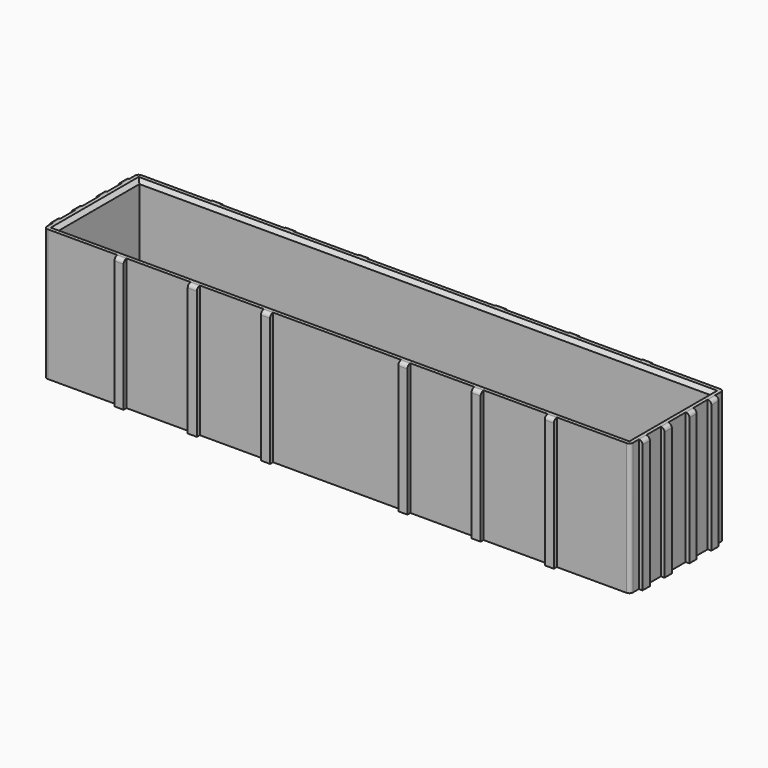
from build123d import *

# Parameters (mm, degrees)
PAD_DEPTH       = 36
SKETCH001_W     = 156
SKETCH001_H     = 28
POCKET_DEPTH    = 35
FILLET_R        = 1
FILLET001_R     = 1
FILLET002_R     = 1
FILLET003_R     = 1
CHAMFER_SIZE    = 1
CHAMFER001_SIZE = 1
CHAMFER002_SIZE = 1
CHAMFER003_SIZE = 1
FILLET004_R     = 1
FILLET005_R     = 1
FILLET006_R     = 1
FILLET007_R     = 1
FILLET008_R     = 1
FILLET009_R     = 1
FILLET010_R     = 1


with BuildPart() as part:
    # Sketch → Pad (new body)
    with BuildSketch(Plane.XY):
        Polygon((-80, 16), (-60, 16), (-60, 17), (-57.5, 17), (-57.5, 16), (-40, 16), (-40, 17), (-37.5, 17), (-37.5, 16), (-20, 16), (-20, 17), (-17.5, 17), (-17.5, 16), (17.5, 16), (17.5, 17), (20, 17), (20, 16), (37.5, 16), (37.5, 17), (40, 17), (40, 16), (57.5, 16), (57.5, 17), (60, 17), (60, 16), (80, 16), (80, 13), (81, 13), (81, 10.5), (80, 10.5), (80, 5.5), (81, 5.5), (81, 3), (80, 3), (80, -3), (81, -3), (81, -5.5), (80, -5.5), (80, -10.5), (81, -10.5), (81, -13), (80, -13), (80, -16), (60, -16), (60, -17), (57.5, -17), (57.5, -16), (40, -16), (40, -17), (37.5, -17), (37.5, -16), (20, -16), (20, -17), (17.5, -17), (17.5, -16), (-17.5, -16), (-17.5, -17), (-20, -17), (-20, -16), (-37.5, -16), (-37.5, -17), (-40, -17), (-40, -16), (-57.5, -16), (-57.5, -17), (-60, -17), (-60, -16), (-80, -16), (-80, -13), (-81, -13), (-81, -10.5), (-80, -10.5), (-80, -5.5), (-81, -5.5), (-81, -3), (-80, -3), (-80, 3), (-81, 3), (-81, 5.5), (-80, 5.5), (-80, 10.5), (-81, 10.5), (-81, 13), (-80, 13), align=None)
    extrude(amount=PAD_DEPTH)

    # Sketch001 (on Face86 of Pad) → Pocket (cut)
    with BuildSketch(Plane.XY.offset(36)):
        Rectangle(SKETCH001_W, SKETCH001_H)
    extrude(amount=-POCKET_DEPTH, mode=Mode.SUBTRACT)

    # Fillet
    fillet_edges = [part.edges().sort_by_distance(p)[0] for p in [
        (-80, -16, 18),
    ]]
    fillet(fillet_edges, radius=FILLET_R)

    # Fillet001
    fillet001_edges = [part.edges().sort_by_distance(p)[0] for p in [
        (-80, 16, 18),
    ]]
    fillet(fillet001_edges, radius=FILLET001_R)

    # Fillet002
    fillet002_edges = [part.edges().sort_by_distance(p)[0] for p in [
        (80, 16, 18),
    ]]
    fillet(fillet002_edges, radius=FILLET002_R)

    # Fillet003
    fillet003_edges = [part.edges().sort_by_distance(p)[0] for p in [
        (80, -16, 18),
    ]]
    fillet(fillet003_edges, radius=FILLET003_R)

    # Chamfer
    chamfer_edges = [part.edges().sort_by_distance(p)[0] for p in [
        (-78, 0, 36),
    ]]
    chamfer(chamfer_edges, length=CHAMFER_SIZE)

    # Chamfer001
    chamfer001_edges = [part.edges().sort_by_distance(p)[0] for p in [
        (0, 14, 36),
    ]]
    chamfer(chamfer001_edges, length=CHAMFER001_SIZE)

    # Chamfer002
    chamfer002_edges = [part.edges().sort_by_distance(p)[0] for p in [
        (0, -14, 36),
    ]]
    chamfer(chamfer002_edges, length=CHAMFER002_SIZE)

    # Chamfer003
    chamfer003_edges = [part.edges().sort_by_distance(p)[0] for p in [
        (78, 0, 36),
    ]]
    chamfer(chamfer003_edges, length=CHAMFER003_SIZE)

    # Fillet004
    fillet004_edges = [part.edges().sort_by_distance(p)[0] for p in [
        (-18.75, -17, 36),
    ]]
    fillet(fillet004_edges, radius=FILLET004_R)

    # Fillet005
    fillet005_edges = [part.edges().sort_by_distance(p)[0] for p in [
        (-38.75, -17, 36),
    ]]
    fillet(fillet005_edges, radius=FILLET005_R)

    # Fillet006
    fillet006_edges = [part.edges().sort_by_distance(p)[0] for p in [
        (81, -4.25, 36),
        (81, 4.25, 36),
        (18.75, 17, 36),
        (-18.75, 17, 36),
        (18.75, -17, 36),
        (38.75, -17, 36),
        (38.75, 17, 36),
        (-38.75, 17, 36),
        (-81, -4.25, 36),
        (-81, 4.25, 36),
    ]]
    fillet(fillet006_edges, radius=FILLET006_R)

    # Fillet007
    fillet007_edges = [part.edges().sort_by_distance(p)[0] for p in [
        (58.75, -17, 36),
    ]]
    fillet(fillet007_edges, radius=FILLET007_R)

    # Fillet008
    fillet008_edges = [part.edges().sort_by_distance(p)[0] for p in [
        (81, 11.75, 36),
        (81, -11.75, 36),
    ]]
    fillet(fillet008_edges, radius=FILLET008_R)

    # Fillet009
    fillet009_edges = [part.edges().sort_by_distance(p)[0] for p in [
        (-58.75, 17, 36),
        (-58.75, -17, 36),
        (-81, -11.75, 36),
        (-81, 11.75, 36),
    ]]
    fillet(fillet009_edges, radius=FILLET009_R)

    # Fillet010
    fillet010_edges = [part.edges().sort_by_distance(p)[0] for p in [
        (58.75, 17, 36),
    ]]
    fillet(fillet010_edges, radius=FILLET010_R)


solid = part.part
